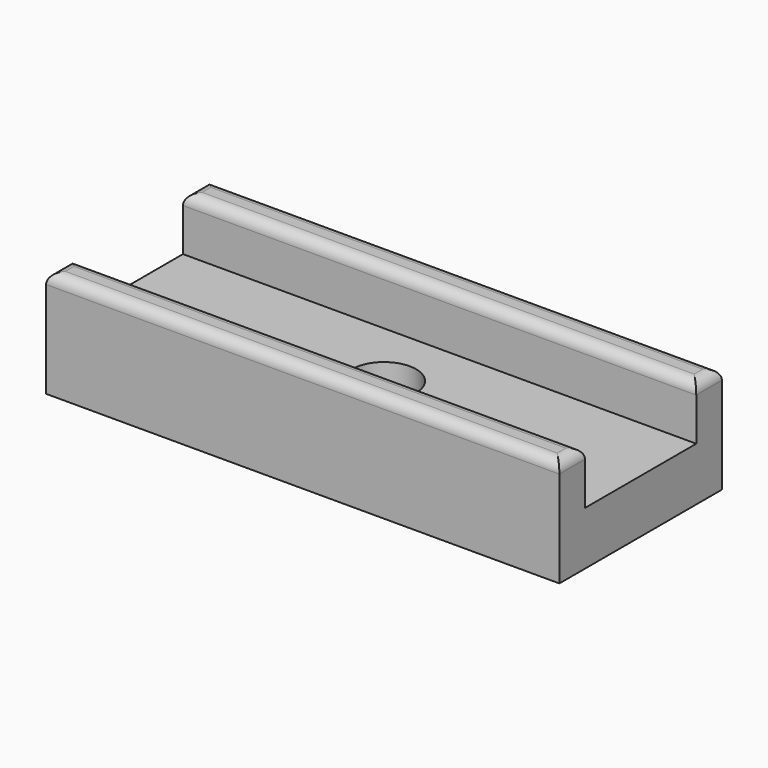
from build123d import *

# Parameters (mm, degrees)
F1_DEPTH = 24
F3_D     = 3
F4_R     = 0.5


with BuildPart() as f1:
    # F0 (on Right) → F1 (new body)
    with BuildSketch(Plane.YZ):
        Polygon((-3.25, 5), (-4.75, 5), (-4.75, 0), (4.75, 0), (4.75, 5), (3.25, 5), (3.25, 2.5), (-3.25, 2.5), align=None)
    extrude(amount=F1_DEPTH)

    # F3 (through all)
    with Locations(Plane.XY.offset(2.5)):
        with Locations((12, 0)):
            Hole(F3_D / 2)

    # F4
    f4_edges = [f1.edges().sort_by_distance(p)[0] for p in [
        (12, 3.25, 5),
        (12, -3.25, 5),
        (12, -4.75, 5),
        (12, 4.75, 5),
        (0, 4, 5),
        (0, -4, 5),
        (24, -4, 5),
        (24, 4, 5),
    ]]
    fillet(f4_edges, radius=F4_R)


solid = f1.part
